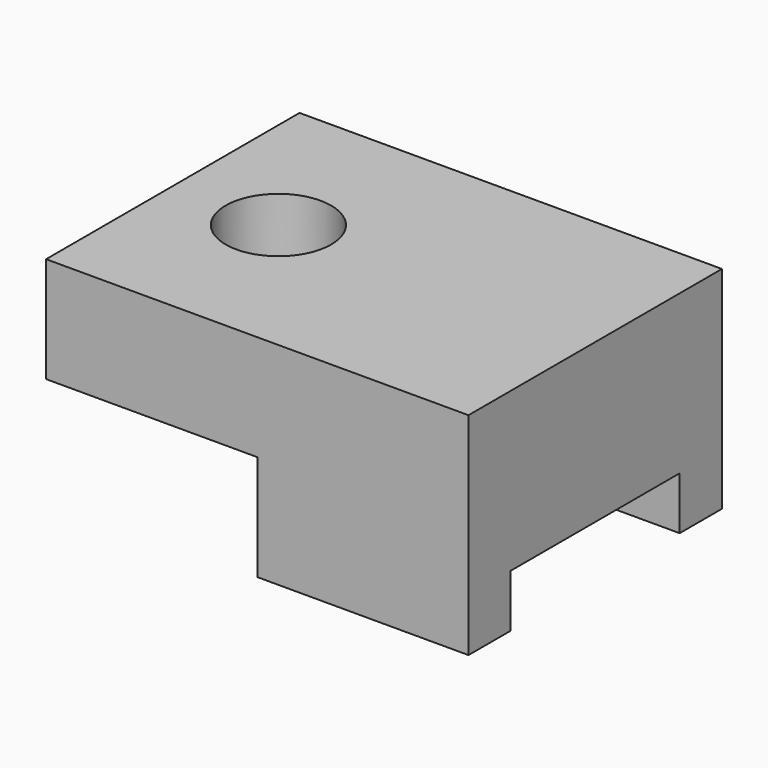
from build123d import *

# Parameters (mm, degrees)
F5_W      = 101.6
F5_H      = 76.2
F6_DEPTH  = 50.8
F7_W      = 50.8
F7_H      = 76.2
F8_DEPTH  = 25.4
F9_R      = 12.7
F10_DEPTH = 76.2
F12_DEPTH = 12.7


with BuildPart() as f6:
    # F5 (on Top) → F6 (new body)
    with BuildSketch(Plane.XY):
        with Locations((50.8, 38.1)):
            Rectangle(F5_W, F5_H)
    extrude(amount=F6_DEPTH)

    # F7 (on Top) → F8 (cut)
    with BuildSketch(Plane.XY):
        with Locations((25.4, 38.1)):
            Rectangle(F7_W, F7_H)
    extrude(amount=F8_DEPTH, mode=Mode.SUBTRACT)

    # F9 (on Top) → F10 (cut)
    with BuildSketch(Plane.XY):
        with Locations((25.4, 38.1)):
            Circle(F9_R)
    extrude(amount=F10_DEPTH, mode=Mode.SUBTRACT)

    # F11 (on face) → F12 (cut)
    with BuildSketch(Plane(origin=(0, 0, 0), x_dir=(1, 0, 0), z_dir=(0, 0, -1))):
        Polygon((101.6, -12.7), (83.254352, -12.7), (50.8, -12.7), (50.8, -63.5), (101.6, -63.5), align=None)
    extrude(amount=-F12_DEPTH, mode=Mode.SUBTRACT)


solid = f6.part
